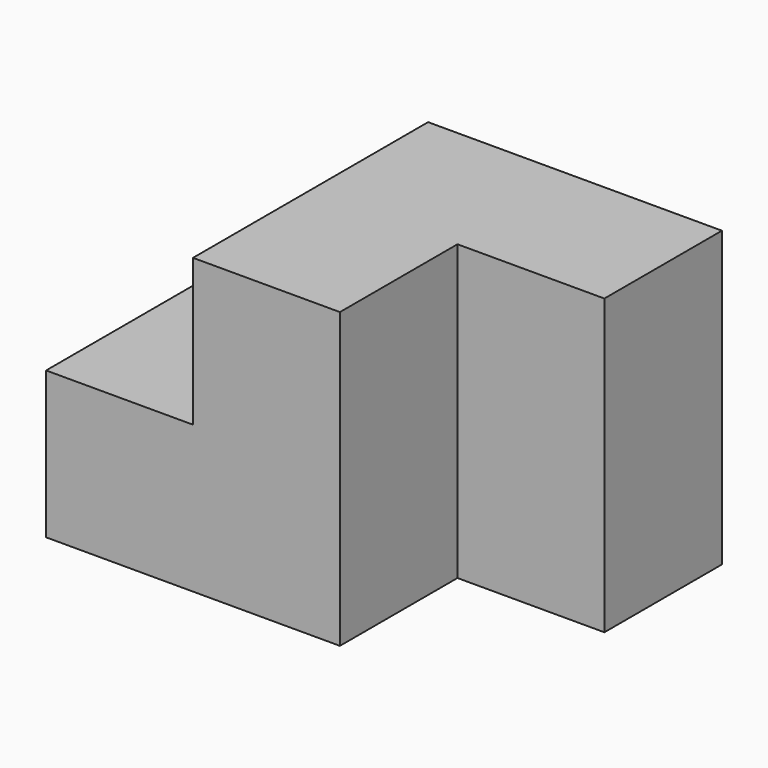
from build123d import *

# Parameters (mm, degrees)
F0_W     = 19.05
F0_H     = 19.05
F1_DEPTH = 38.1
F2_DEPTH = 19.05


with BuildPart() as f1:
    # F0 (on Top) → F1 (new body)
    with BuildSketch(Plane.XY):
        with Locations((9.525, 9.525)):
            Rectangle(F0_W, F0_H)
        with Locations((28.575, 9.525)):
            Rectangle(F0_W, F0_H)
        with Locations((9.525, -9.525)):
            Rectangle(F0_W, F0_H)
    extrude(amount=F1_DEPTH)

    # F0 (on Top) → F2 (join)
    with BuildSketch(Plane.XY):
        Polygon((0, 0), (0, 19.05), (-19.05, 19.05), (-19.05, -19.05), (0, -19.05), align=None)
    extrude(amount=F2_DEPTH)


solid = f1.part
